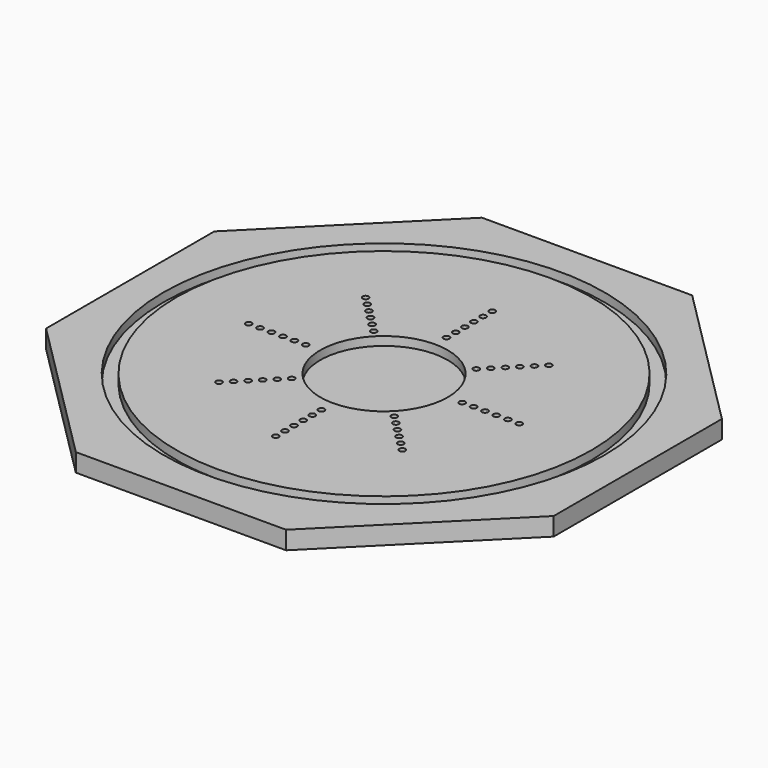
from build123d import *

# Parameters (mm, degrees)
F1_DEPTH = 3.175
F2_R     = 38.608
F2_R_2   = 36.322
F2_R_3   = 11.1633
F3_DEPTH = 1.524
F4_R     = 0.5334
F5_DEPTH = 3.176


with BuildPart() as f1:
    # F0 (on Top) → F1 (new body)
    with BuildSketch(Plane.XY):
        Polygon((18.411793, 44.45), (-18.411793, 44.45), (-44.45, 18.411793), (-44.45, 0), (44.45, 0), (44.45, 18.411793), align=None)
        Polygon((44.45, 0), (-44.45, 0), (-44.45, -18.411793), (-18.411793, -44.45), (18.411793, -44.45), (44.45, -18.411793), align=None)
    extrude(amount=F1_DEPTH)

    # F2 (on face) → F3 (cut)
    with BuildSketch(Plane.XY.offset(3.175)):
        Circle(F2_R)
        Circle(F2_R_2, mode=Mode.SUBTRACT)
        Circle(F2_R_3)
    extrude(amount=-F3_DEPTH, mode=Mode.SUBTRACT)

    # F4 (on Top) → F5 (cut, through all)
    with BuildSketch(Plane.XY):
        with Locations((0, -13.6967)):
            Circle(F4_R)
        with Locations((0, -15.6967)):
            Circle(F4_R)
        with Locations((0, -17.6967)):
            Circle(F4_R)
        with Locations((0, -19.6967)):
            Circle(F4_R)
        with Locations((0, -21.6967)):
            Circle(F4_R)
        with Locations((0, -23.6967)):
            Circle(F4_R)
        with Locations((-8.977923, -8.977923)):
            Circle(F4_R)
        with Locations((-10.392136, -10.392136)):
            Circle(F4_R)
        with Locations((-11.80635, -11.80635)):
            Circle(F4_R)
        with Locations((-13.220563, -13.220563)):
            Circle(F4_R)
        with Locations((-14.634777, -14.634777)):
            Circle(F4_R)
        with Locations((-16.04899, -16.04899)):
            Circle(F4_R)
        with Locations((-21.6967, 0)):
            Circle(F4_R)
        with Locations((-23.6967, 0)):
            Circle(F4_R)
        with Locations((-13.6967, 0)):
            Circle(F4_R)
        with Locations((-17.6967, 0)):
            Circle(F4_R)
        with Locations((-15.6967, 0)):
            Circle(F4_R)
        with Locations((-19.6967, 0)):
            Circle(F4_R)
        with Locations((-16.04899, 16.04899)):
            Circle(F4_R)
        with Locations((-14.634777, 14.634777)):
            Circle(F4_R)
        with Locations((-8.977923, 8.977923)):
            Circle(F4_R)
        with Locations((-10.392136, 10.392136)):
            Circle(F4_R)
        with Locations((-13.220563, 13.220563)):
            Circle(F4_R)
        with Locations((-11.80635, 11.80635)):
            Circle(F4_R)
        with Locations((0, 21.6967)):
            Circle(F4_R)
        with Locations((0, 23.6967)):
            Circle(F4_R)
        with Locations((0, 13.6967)):
            Circle(F4_R)
        with Locations((0, 17.6967)):
            Circle(F4_R)
        with Locations((0, 15.6967)):
            Circle(F4_R)
        with Locations((0, 19.6967)):
            Circle(F4_R)
        with Locations((16.04899, 16.04899)):
            Circle(F4_R)
        with Locations((14.634777, 14.634777)):
            Circle(F4_R)
        with Locations((8.977923, 8.977923)):
            Circle(F4_R)
        with Locations((10.392136, 10.392136)):
            Circle(F4_R)
        with Locations((13.220563, 13.220563)):
            Circle(F4_R)
        with Locations((11.80635, 11.80635)):
            Circle(F4_R)
        with Locations((21.6967, 0)):
            Circle(F4_R)
        with Locations((23.6967, 0)):
            Circle(F4_R)
        with Locations((13.6967, 0)):
            Circle(F4_R)
        with Locations((17.6967, 0)):
            Circle(F4_R)
        with Locations((15.6967, 0)):
            Circle(F4_R)
        with Locations((19.6967, 0)):
            Circle(F4_R)
        with Locations((16.04899, -16.04899)):
            Circle(F4_R)
        with Locations((14.634777, -14.634777)):
            Circle(F4_R)
        with Locations((8.977923, -8.977923)):
            Circle(F4_R)
        with Locations((10.392136, -10.392136)):
            Circle(F4_R)
        with Locations((13.220563, -13.220563)):
            Circle(F4_R)
        with Locations((11.80635, -11.80635)):
            Circle(F4_R)
    extrude(amount=F5_DEPTH, mode=Mode.SUBTRACT)


solid = f1.part
